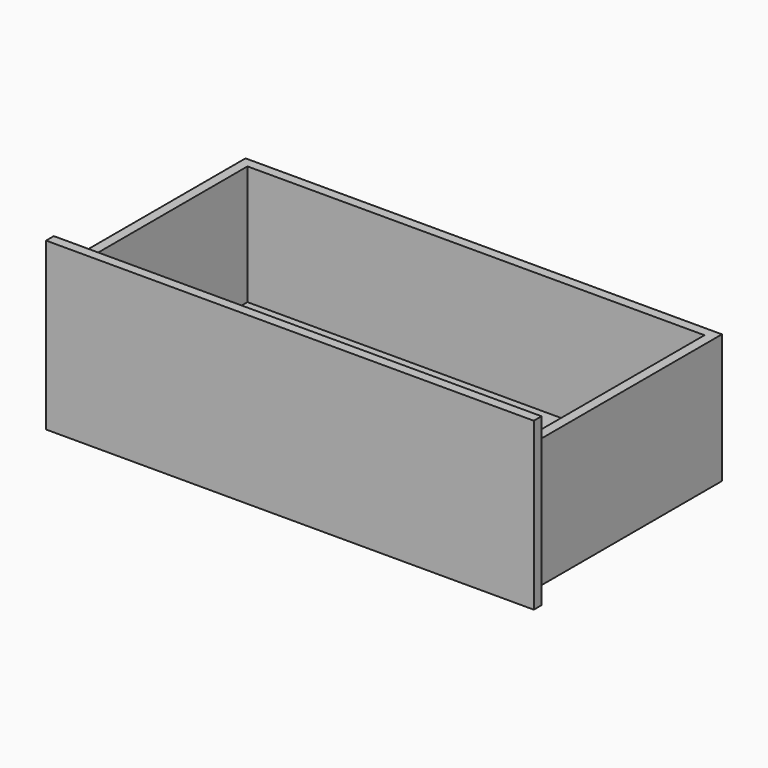
from build123d import *

# Parameters (mm, degrees)
F0_W     = 936.625
F0_H     = 457.2
F1_DEPTH = 254
F2_W     = 898.525
F2_H     = 419.1
F3_DEPTH = 234.95
F4_W     = 958.85
F4_H     = 327.025
F5_DEPTH = 19.05


with BuildPart() as f1:
    # F0 (on Top) → F1 (new body)
    with BuildSketch(Plane.XY):
        with Locations((-12.105351, 5.909053)):
            Rectangle(F0_W, F0_H)
    extrude(amount=F1_DEPTH)

    # F2 (on face) → F3 (cut)
    with BuildSketch(Plane.XY.offset(254)):
        with Locations((-12.105351, 5.909053)):
            Rectangle(F2_W, F2_H)
    extrude(amount=-F3_DEPTH, mode=Mode.SUBTRACT)

    # F4 (on face) → F5 (join)
    with BuildSketch(Plane.XZ.offset(222.690947)):
        with Locations((-12.105351, 138.1125)):
            Rectangle(F4_W, F4_H)
    extrude(amount=F5_DEPTH)


solid = f1.part
